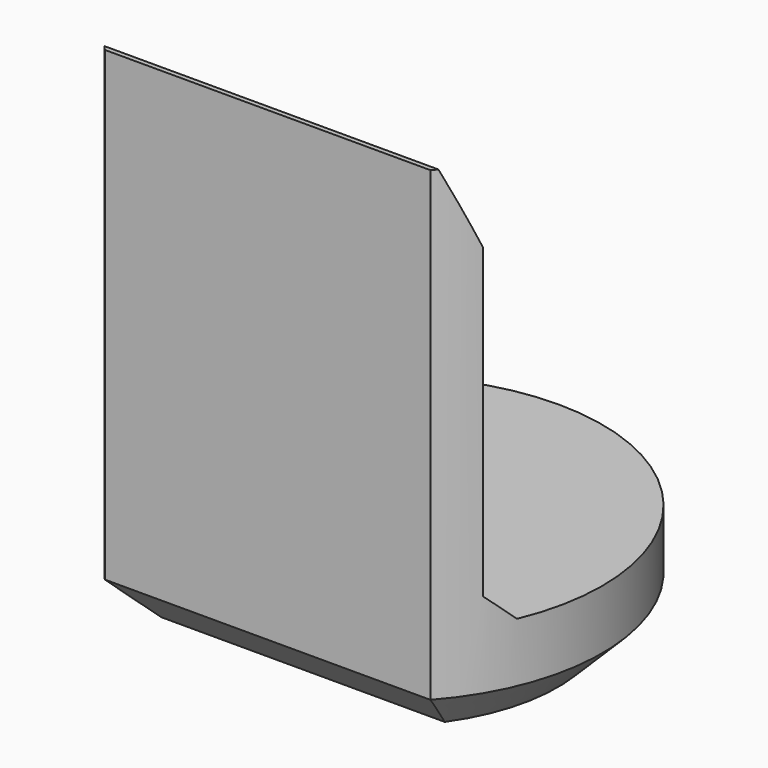
from build123d import *

# Parameters (mm, degrees)
PAD007_DEPTH         = 6.9
POCKET005_DEPTH      = 2.951
POCKET005_DEPTH_BACK = 2.951
CHAMFER008_SIZE      = 0.6


with BuildPart() as part:
    # Sketch018 → Pad007 (new body)
    with BuildSketch(Plane.XY):
        with BuildLine():
            ThreePointArc((2.2, -1.9653244007), (0, 2.95), (-2.2, -1.9653244007))
            Line((-2.2, -1.9653244007), (2.2, -1.9653244007))
        make_face()
    extrude(amount=PAD007_DEPTH)

    # Sketch019 → Pocket005 (cut, two sides)
    with BuildSketch(Plane.YZ) as pocket005_sk:
        Polygon((-1.9, 6.9), (-1.5, 5.9), (-1.5, 1.75), (-1.15, 1.4), (5, 1.4), (5, 6.9), align=None)
    extrude(amount=-POCKET005_DEPTH, mode=Mode.SUBTRACT)
    extrude(pocket005_sk.sketch, amount=POCKET005_DEPTH_BACK, mode=Mode.SUBTRACT)

    # Chamfer008
    chamfer008_edges = [part.edges().sort_by_distance(p)[0] for p in [
        (0, 2.95, 0),
        (0, -1.965324, 0),
    ]]
    chamfer(chamfer008_edges, length=CHAMFER008_SIZE)


with BuildPart() as part_1:
    # Body056 placement: moved
    add(part.part.moved(Location((0, 36, 0))))


solid = part_1.part
